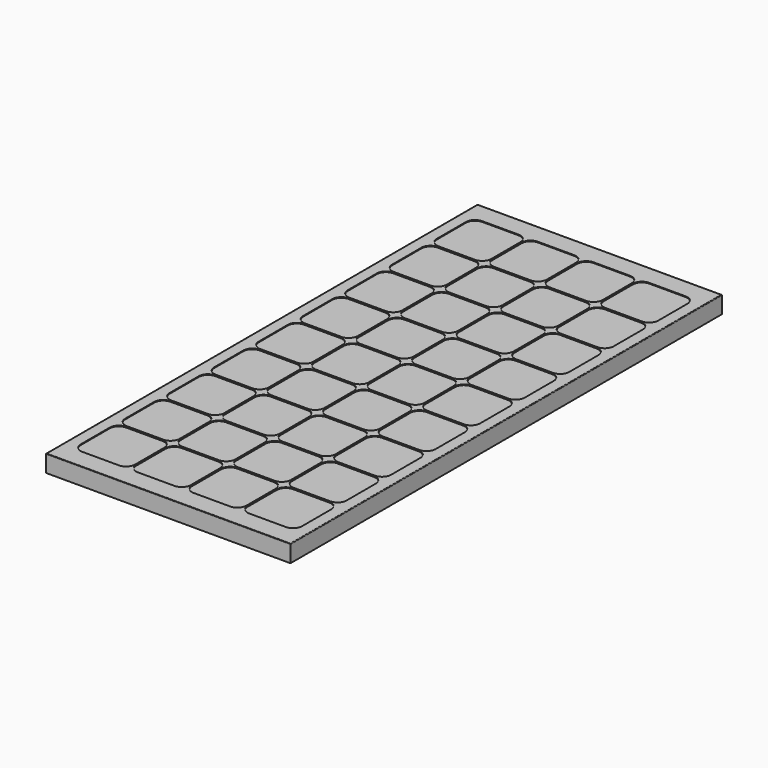
from build123d import *

# Parameters (mm, degrees)
F0_W     = 541.02
F0_H     = 1193.8
F1_DEPTH = 38.1
F3_START = 36.5125
F3_DEPTH = 1.5875
F4_DEPTH = 0.508
F5_R     = 1.27


with BuildPart() as f1:
    # F0 (on Top) → F1 (new body)
    with BuildSketch(Plane.XY):
        Rectangle(F0_W, F0_H)
    extrude(amount=F1_DEPTH)

    # F2 (on Top) → F3 (cut)
    with BuildSketch(Plane.XY.offset(F3_START)):
        with BuildLine():
            Line((-144.46, 553.085), (-225.11, 553.085))
            ThreePointArc((-225.11, 553.085), (-239.2521356237, 547.2271356237), (-245.11, 533.085))
            Line((-245.11, 533.085), (-245.11, 452.435))
            ThreePointArc((-245.11, 452.435), (-239.2521356237, 438.2928643763), (-225.11, 432.435))
            Line((-225.11, 432.435), (-144.46, 432.435))
            ThreePointArc((-144.46, 432.435), (-130.3178643763, 438.2928643763), (-124.46, 452.435))
            Line((-124.46, 452.435), (-124.46, 533.085))
            ThreePointArc((-124.46, 533.085), (-130.3178643763, 547.2271356237), (-144.46, 553.085))
        make_face()
        with BuildLine():
            Line((-144.46, 429.895), (-225.11, 429.895))
            ThreePointArc((-225.11, 429.895), (-239.2521356237, 424.0371356237), (-245.11, 409.895))
            Line((-245.11, 409.895), (-245.11, 329.245))
            ThreePointArc((-245.11, 329.245), (-239.2521356237, 315.1028643763), (-225.11, 309.245))
            Line((-225.11, 309.245), (-144.46, 309.245))
            ThreePointArc((-144.46, 309.245), (-130.3178643763, 315.1028643763), (-124.46, 329.245))
            Line((-124.46, 329.245), (-124.46, 409.895))
            ThreePointArc((-124.46, 409.895), (-130.3178643763, 424.0371356237), (-144.46, 429.895))
        make_face()
        with BuildLine():
            Line((-144.46, 306.705), (-225.11, 306.705))
            ThreePointArc((-225.11, 306.705), (-239.2521356237, 300.8471356237), (-245.11, 286.705))
            Line((-245.11, 286.705), (-245.11, 206.055))
            ThreePointArc((-245.11, 206.055), (-239.2521356237, 191.9128643763), (-225.11, 186.055))
            Line((-225.11, 186.055), (-144.46, 186.055))
            ThreePointArc((-144.46, 186.055), (-130.3178643763, 191.9128643763), (-124.46, 206.055))
            Line((-124.46, 206.055), (-124.46, 286.705))
            ThreePointArc((-124.46, 286.705), (-130.3178643763, 300.8471356237), (-144.46, 306.705))
        make_face()
        with BuildLine():
            Line((-144.46, 183.515), (-225.11, 183.515))
            ThreePointArc((-225.11, 183.515), (-239.2521356237, 177.6571356237), (-245.11, 163.515))
            Line((-245.11, 163.515), (-245.11, 82.865))
            ThreePointArc((-245.11, 82.865), (-239.2521356237, 68.7228643763), (-225.11, 62.865))
            Line((-225.11, 62.865), (-144.46, 62.865))
            ThreePointArc((-144.46, 62.865), (-130.3178643763, 68.7228643763), (-124.46, 82.865))
            Line((-124.46, 82.865), (-124.46, 163.515))
            ThreePointArc((-124.46, 163.515), (-130.3178643763, 177.6571356237), (-144.46, 183.515))
        make_face()
        with BuildLine():
            Line((-144.46, 60.325), (-225.11, 60.325))
            ThreePointArc((-225.11, 60.325), (-239.2521356237, 54.4671356237), (-245.11, 40.325))
            Line((-245.11, 40.325), (-245.11, -40.325))
            ThreePointArc((-245.11, -40.325), (-239.2521356237, -54.4671356237), (-225.11, -60.325))
            Line((-225.11, -60.325), (-144.46, -60.325))
            ThreePointArc((-144.46, -60.325), (-130.3178643763, -54.4671356237), (-124.46, -40.325))
            Line((-124.46, -40.325), (-124.46, 40.325))
            ThreePointArc((-124.46, 40.325), (-130.3178643763, 54.4671356237), (-144.46, 60.325))
        make_face()
        with BuildLine():
            Line((-144.46, -62.865), (-225.11, -62.865))
            ThreePointArc((-225.11, -62.865), (-239.2521356237, -68.7228643763), (-245.11, -82.865))
            Line((-245.11, -82.865), (-245.11, -163.515))
            ThreePointArc((-245.11, -163.515), (-239.2521356237, -177.6571356237), (-225.11, -183.515))
            Line((-225.11, -183.515), (-144.46, -183.515))
            ThreePointArc((-144.46, -183.515), (-130.3178643763, -177.6571356237), (-124.46, -163.515))
            Line((-124.46, -163.515), (-124.46, -82.865))
            ThreePointArc((-124.46, -82.865), (-130.3178643763, -68.7228643763), (-144.46, -62.865))
        make_face()
        with BuildLine():
            Line((-144.46, -186.055), (-225.11, -186.055))
            ThreePointArc((-225.11, -186.055), (-239.2521356237, -191.9128643763), (-245.11, -206.055))
            Line((-245.11, -206.055), (-245.11, -286.705))
            ThreePointArc((-245.11, -286.705), (-239.2521356237, -300.8471356237), (-225.11, -306.705))
            Line((-225.11, -306.705), (-144.46, -306.705))
            ThreePointArc((-144.46, -306.705), (-130.3178643763, -300.8471356237), (-124.46, -286.705))
            Line((-124.46, -286.705), (-124.46, -206.055))
            ThreePointArc((-124.46, -206.055), (-130.3178643763, -191.9128643763), (-144.46, -186.055))
        make_face()
        with BuildLine():
            Line((-144.46, -309.245), (-225.11, -309.245))
            ThreePointArc((-225.11, -309.245), (-239.2521356237, -315.1028643763), (-245.11, -329.245))
            Line((-245.11, -329.245), (-245.11, -409.895))
            ThreePointArc((-245.11, -409.895), (-239.2521356237, -424.0371356237), (-225.11, -429.895))
            Line((-225.11, -429.895), (-144.46, -429.895))
            ThreePointArc((-144.46, -429.895), (-130.3178643763, -424.0371356237), (-124.46, -409.895))
            Line((-124.46, -409.895), (-124.46, -329.245))
            ThreePointArc((-124.46, -329.245), (-130.3178643763, -315.1028643763), (-144.46, -309.245))
        make_face()
        with BuildLine():
            Line((-144.46, -432.435), (-225.11, -432.435))
            ThreePointArc((-225.11, -432.435), (-239.2521356237, -438.2928643763), (-245.11, -452.435))
            Line((-245.11, -452.435), (-245.11, -533.085))
            ThreePointArc((-245.11, -533.085), (-239.2521356237, -547.2271356237), (-225.11, -553.085))
            Line((-225.11, -553.085), (-144.46, -553.085))
            ThreePointArc((-144.46, -553.085), (-130.3178643763, -547.2271356237), (-124.46, -533.085))
            Line((-124.46, -533.085), (-124.46, -452.435))
            ThreePointArc((-124.46, -452.435), (-130.3178643763, -438.2928643763), (-144.46, -432.435))
        make_face()
        with BuildLine():
            Line((-21.27, 553.085), (-101.92, 553.085))
            ThreePointArc((-101.92, 553.085), (-116.0621356237, 547.2271356237), (-121.92, 533.085))
            Line((-121.92, 533.085), (-121.92, 452.435))
            ThreePointArc((-121.92, 452.435), (-116.0621356237, 438.2928643763), (-101.92, 432.435))
            Line((-101.92, 432.435), (-21.27, 432.435))
            ThreePointArc((-21.27, 432.435), (-7.1278643763, 438.2928643763), (-1.27, 452.435))
            Line((-1.27, 452.435), (-1.27, 533.085))
            ThreePointArc((-1.27, 533.085), (-7.1278643763, 547.2271356237), (-21.27, 553.085))
        make_face()
        with BuildLine():
            Line((-21.27, 429.895), (-101.92, 429.895))
            ThreePointArc((-101.92, 429.895), (-116.0621356237, 424.0371356237), (-121.92, 409.895))
            Line((-121.92, 409.895), (-121.92, 329.245))
            ThreePointArc((-121.92, 329.245), (-116.0621356237, 315.1028643763), (-101.92, 309.245))
            Line((-101.92, 309.245), (-21.27, 309.245))
            ThreePointArc((-21.27, 309.245), (-7.1278643763, 315.1028643763), (-1.27, 329.245))
            Line((-1.27, 329.245), (-1.27, 409.895))
            ThreePointArc((-1.27, 409.895), (-7.1278643763, 424.0371356237), (-21.27, 429.895))
        make_face()
        with BuildLine():
            Line((-21.27, 306.705), (-101.92, 306.705))
            ThreePointArc((-101.92, 306.705), (-116.0621356237, 300.8471356237), (-121.92, 286.705))
            Line((-121.92, 286.705), (-121.92, 206.055))
            ThreePointArc((-121.92, 206.055), (-116.0621356237, 191.9128643763), (-101.92, 186.055))
            Line((-101.92, 186.055), (-21.27, 186.055))
            ThreePointArc((-21.27, 186.055), (-7.1278643763, 191.9128643763), (-1.27, 206.055))
            Line((-1.27, 206.055), (-1.27, 286.705))
            ThreePointArc((-1.27, 286.705), (-7.1278643763, 300.8471356237), (-21.27, 306.705))
        make_face()
        with BuildLine():
            Line((-21.27, 183.515), (-101.92, 183.515))
            ThreePointArc((-101.92, 183.515), (-116.0621356237, 177.6571356237), (-121.92, 163.515))
            Line((-121.92, 163.515), (-121.92, 82.865))
            ThreePointArc((-121.92, 82.865), (-116.0621356237, 68.7228643763), (-101.92, 62.865))
            Line((-101.92, 62.865), (-21.27, 62.865))
            ThreePointArc((-21.27, 62.865), (-7.1278643763, 68.7228643763), (-1.27, 82.865))
            Line((-1.27, 82.865), (-1.27, 163.515))
            ThreePointArc((-1.27, 163.515), (-7.1278643763, 177.6571356237), (-21.27, 183.515))
        make_face()
        with BuildLine():
            Line((-21.27, 60.325), (-101.92, 60.325))
            ThreePointArc((-101.92, 60.325), (-116.0621356237, 54.4671356237), (-121.92, 40.325))
            Line((-121.92, 40.325), (-121.92, -40.325))
            ThreePointArc((-121.92, -40.325), (-116.0621356237, -54.4671356237), (-101.92, -60.325))
            Line((-101.92, -60.325), (-21.27, -60.325))
            ThreePointArc((-21.27, -60.325), (-7.1278643763, -54.4671356237), (-1.27, -40.325))
            Line((-1.27, -40.325), (-1.27, 40.325))
            ThreePointArc((-1.27, 40.325), (-7.1278643763, 54.4671356237), (-21.27, 60.325))
        make_face()
        with BuildLine():
            Line((-21.27, -62.865), (-101.92, -62.865))
            ThreePointArc((-101.92, -62.865), (-116.0621356237, -68.7228643763), (-121.92, -82.865))
            Line((-121.92, -82.865), (-121.92, -163.515))
            ThreePointArc((-121.92, -163.515), (-116.0621356237, -177.6571356237), (-101.92, -183.515))
            Line((-101.92, -183.515), (-21.27, -183.515))
            ThreePointArc((-21.27, -183.515), (-7.1278643763, -177.6571356237), (-1.27, -163.515))
            Line((-1.27, -163.515), (-1.27, -82.865))
            ThreePointArc((-1.27, -82.865), (-7.1278643763, -68.7228643763), (-21.27, -62.865))
        make_face()
        with BuildLine():
            Line((-21.27, -186.055), (-101.92, -186.055))
            ThreePointArc((-101.92, -186.055), (-116.0621356237, -191.9128643763), (-121.92, -206.055))
            Line((-121.92, -206.055), (-121.92, -286.705))
            ThreePointArc((-121.92, -286.705), (-116.0621356237, -300.8471356237), (-101.92, -306.705))
            Line((-101.92, -306.705), (-21.27, -306.705))
            ThreePointArc((-21.27, -306.705), (-7.1278643763, -300.8471356237), (-1.27, -286.705))
            Line((-1.27, -286.705), (-1.27, -206.055))
            ThreePointArc((-1.27, -206.055), (-7.1278643763, -191.9128643763), (-21.27, -186.055))
        make_face()
        with BuildLine():
            Line((-21.27, -309.245), (-101.92, -309.245))
            ThreePointArc((-101.92, -309.245), (-116.0621356237, -315.1028643763), (-121.92, -329.245))
            Line((-121.92, -329.245), (-121.92, -409.895))
            ThreePointArc((-121.92, -409.895), (-116.0621356237, -424.0371356237), (-101.92, -429.895))
            Line((-101.92, -429.895), (-21.27, -429.895))
            ThreePointArc((-21.27, -429.895), (-7.1278643763, -424.0371356237), (-1.27, -409.895))
            Line((-1.27, -409.895), (-1.27, -329.245))
            ThreePointArc((-1.27, -329.245), (-7.1278643763, -315.1028643763), (-21.27, -309.245))
        make_face()
        with BuildLine():
            Line((-21.27, -432.435), (-101.92, -432.435))
            ThreePointArc((-101.92, -432.435), (-116.0621356237, -438.2928643763), (-121.92, -452.435))
            Line((-121.92, -452.435), (-121.92, -533.085))
            ThreePointArc((-121.92, -533.085), (-116.0621356237, -547.2271356237), (-101.92, -553.085))
            Line((-101.92, -553.085), (-21.27, -553.085))
            ThreePointArc((-21.27, -553.085), (-7.1278643763, -547.2271356237), (-1.27, -533.085))
            Line((-1.27, -533.085), (-1.27, -452.435))
            ThreePointArc((-1.27, -452.435), (-7.1278643763, -438.2928643763), (-21.27, -432.435))
        make_face()
        with BuildLine():
            Line((101.92, 553.085), (21.27, 553.085))
            ThreePointArc((21.27, 553.085), (7.1278643763, 547.2271356237), (1.27, 533.085))
            Line((1.27, 533.085), (1.27, 452.435))
            ThreePointArc((1.27, 452.435), (7.1278643763, 438.2928643763), (21.27, 432.435))
            Line((21.27, 432.435), (101.92, 432.435))
            ThreePointArc((101.92, 432.435), (116.0621356237, 438.2928643763), (121.92, 452.435))
            Line((121.92, 452.435), (121.92, 533.085))
            ThreePointArc((121.92, 533.085), (116.0621356237, 547.2271356237), (101.92, 553.085))
        make_face()
        with BuildLine():
            Line((101.92, 429.895), (21.27, 429.895))
            ThreePointArc((21.27, 429.895), (7.1278643763, 424.0371356237), (1.27, 409.895))
            Line((1.27, 409.895), (1.27, 329.245))
            ThreePointArc((1.27, 329.245), (7.1278643763, 315.1028643763), (21.27, 309.245))
            Line((21.27, 309.245), (101.92, 309.245))
            ThreePointArc((101.92, 309.245), (116.0621356237, 315.1028643763), (121.92, 329.245))
            Line((121.92, 329.245), (121.92, 409.895))
            ThreePointArc((121.92, 409.895), (116.0621356237, 424.0371356237), (101.92, 429.895))
        make_face()
        with BuildLine():
            Line((101.92, 306.705), (21.27, 306.705))
            ThreePointArc((21.27, 306.705), (7.1278643763, 300.8471356237), (1.27, 286.705))
            Line((1.27, 286.705), (1.27, 206.055))
            ThreePointArc((1.27, 206.055), (7.1278643763, 191.9128643763), (21.27, 186.055))
            Line((21.27, 186.055), (101.92, 186.055))
            ThreePointArc((101.92, 186.055), (116.0621356237, 191.9128643763), (121.92, 206.055))
            Line((121.92, 206.055), (121.92, 286.705))
            ThreePointArc((121.92, 286.705), (116.0621356237, 300.8471356237), (101.92, 306.705))
        make_face()
        with BuildLine():
            Line((101.92, 183.515), (21.27, 183.515))
            ThreePointArc((21.27, 183.515), (7.1278643763, 177.6571356237), (1.27, 163.515))
            Line((1.27, 163.515), (1.27, 82.865))
            ThreePointArc((1.27, 82.865), (7.1278643763, 68.7228643763), (21.27, 62.865))
            Line((21.27, 62.865), (101.92, 62.865))
            ThreePointArc((101.92, 62.865), (116.0621356237, 68.7228643763), (121.92, 82.865))
            Line((121.92, 82.865), (121.92, 163.515))
            ThreePointArc((121.92, 163.515), (116.0621356237, 177.6571356237), (101.92, 183.515))
        make_face()
        with BuildLine():
            Line((101.92, 60.325), (21.27, 60.325))
            ThreePointArc((21.27, 60.325), (7.1278643763, 54.4671356237), (1.27, 40.325))
            Line((1.27, 40.325), (1.27, -40.325))
            ThreePointArc((1.27, -40.325), (7.1278643763, -54.4671356237), (21.27, -60.325))
            Line((21.27, -60.325), (101.92, -60.325))
            ThreePointArc((101.92, -60.325), (116.0621356237, -54.4671356237), (121.92, -40.325))
            Line((121.92, -40.325), (121.92, 40.325))
            ThreePointArc((121.92, 40.325), (116.0621356237, 54.4671356237), (101.92, 60.325))
        make_face()
        with BuildLine():
            Line((101.92, -62.865), (21.27, -62.865))
            ThreePointArc((21.27, -62.865), (7.1278643763, -68.7228643763), (1.27, -82.865))
            Line((1.27, -82.865), (1.27, -163.515))
            ThreePointArc((1.27, -163.515), (7.1278643763, -177.6571356237), (21.27, -183.515))
            Line((21.27, -183.515), (101.92, -183.515))
            ThreePointArc((101.92, -183.515), (116.0621356237, -177.6571356237), (121.92, -163.515))
            Line((121.92, -163.515), (121.92, -82.865))
            ThreePointArc((121.92, -82.865), (116.0621356237, -68.7228643763), (101.92, -62.865))
        make_face()
        with BuildLine():
            Line((101.92, -186.055), (21.27, -186.055))
            ThreePointArc((21.27, -186.055), (7.1278643763, -191.9128643763), (1.27, -206.055))
            Line((1.27, -206.055), (1.27, -286.705))
            ThreePointArc((1.27, -286.705), (7.1278643763, -300.8471356237), (21.27, -306.705))
            Line((21.27, -306.705), (101.92, -306.705))
            ThreePointArc((101.92, -306.705), (116.0621356237, -300.8471356237), (121.92, -286.705))
            Line((121.92, -286.705), (121.92, -206.055))
            ThreePointArc((121.92, -206.055), (116.0621356237, -191.9128643763), (101.92, -186.055))
        make_face()
        with BuildLine():
            Line((101.92, -309.245), (21.27, -309.245))
            ThreePointArc((21.27, -309.245), (7.1278643763, -315.1028643763), (1.27, -329.245))
            Line((1.27, -329.245), (1.27, -409.895))
            ThreePointArc((1.27, -409.895), (7.1278643763, -424.0371356237), (21.27, -429.895))
            Line((21.27, -429.895), (101.92, -429.895))
            ThreePointArc((101.92, -429.895), (116.0621356237, -424.0371356237), (121.92, -409.895))
            Line((121.92, -409.895), (121.92, -329.245))
            ThreePointArc((121.92, -329.245), (116.0621356237, -315.1028643763), (101.92, -309.245))
        make_face()
        with BuildLine():
            Line((101.92, -432.435), (21.27, -432.435))
            ThreePointArc((21.27, -432.435), (7.1278643763, -438.2928643763), (1.27, -452.435))
            Line((1.27, -452.435), (1.27, -533.085))
            ThreePointArc((1.27, -533.085), (7.1278643763, -547.2271356237), (21.27, -553.085))
            Line((21.27, -553.085), (101.92, -553.085))
            ThreePointArc((101.92, -553.085), (116.0621356237, -547.2271356237), (121.92, -533.085))
            Line((121.92, -533.085), (121.92, -452.435))
            ThreePointArc((121.92, -452.435), (116.0621356237, -438.2928643763), (101.92, -432.435))
        make_face()
        with BuildLine():
            Line((225.11, 553.085), (144.46, 553.085))
            ThreePointArc((144.46, 553.085), (130.3178643763, 547.2271356237), (124.46, 533.085))
            Line((124.46, 533.085), (124.46, 452.435))
            ThreePointArc((124.46, 452.435), (130.3178643763, 438.2928643763), (144.46, 432.435))
            Line((144.46, 432.435), (225.11, 432.435))
            ThreePointArc((225.11, 432.435), (239.2521356237, 438.2928643763), (245.11, 452.435))
            Line((245.11, 452.435), (245.11, 533.085))
            ThreePointArc((245.11, 533.085), (239.2521356237, 547.2271356237), (225.11, 553.085))
        make_face()
        with BuildLine():
            Line((225.11, 429.895), (144.46, 429.895))
            ThreePointArc((144.46, 429.895), (130.3178643763, 424.0371356237), (124.46, 409.895))
            Line((124.46, 409.895), (124.46, 329.245))
            ThreePointArc((124.46, 329.245), (130.3178643763, 315.1028643763), (144.46, 309.245))
            Line((144.46, 309.245), (225.11, 309.245))
            ThreePointArc((225.11, 309.245), (239.2521356237, 315.1028643763), (245.11, 329.245))
            Line((245.11, 329.245), (245.11, 409.895))
            ThreePointArc((245.11, 409.895), (239.2521356237, 424.0371356237), (225.11, 429.895))
        make_face()
        with BuildLine():
            Line((225.11, 306.705), (144.46, 306.705))
            ThreePointArc((144.46, 306.705), (130.3178643763, 300.8471356237), (124.46, 286.705))
            Line((124.46, 286.705), (124.46, 206.055))
            ThreePointArc((124.46, 206.055), (130.3178643763, 191.9128643763), (144.46, 186.055))
            Line((144.46, 186.055), (225.11, 186.055))
            ThreePointArc((225.11, 186.055), (239.2521356237, 191.9128643763), (245.11, 206.055))
            Line((245.11, 206.055), (245.11, 286.705))
            ThreePointArc((245.11, 286.705), (239.2521356237, 300.8471356237), (225.11, 306.705))
        make_face()
        with BuildLine():
            Line((225.11, 183.515), (144.46, 183.515))
            ThreePointArc((144.46, 183.515), (130.3178643763, 177.6571356237), (124.46, 163.515))
            Line((124.46, 163.515), (124.46, 82.865))
            ThreePointArc((124.46, 82.865), (130.3178643763, 68.7228643763), (144.46, 62.865))
            Line((144.46, 62.865), (225.11, 62.865))
            ThreePointArc((225.11, 62.865), (239.2521356237, 68.7228643763), (245.11, 82.865))
            Line((245.11, 82.865), (245.11, 163.515))
            ThreePointArc((245.11, 163.515), (239.2521356237, 177.6571356237), (225.11, 183.515))
        make_face()
        with BuildLine():
            Line((225.11, 60.325), (144.46, 60.325))
            ThreePointArc((144.46, 60.325), (130.3178643763, 54.4671356237), (124.46, 40.325))
            Line((124.46, 40.325), (124.46, -40.325))
            ThreePointArc((124.46, -40.325), (130.3178643763, -54.4671356237), (144.46, -60.325))
            Line((144.46, -60.325), (225.11, -60.325))
            ThreePointArc((225.11, -60.325), (239.2521356237, -54.4671356237), (245.11, -40.325))
            Line((245.11, -40.325), (245.11, 40.325))
            ThreePointArc((245.11, 40.325), (239.2521356237, 54.4671356237), (225.11, 60.325))
        make_face()
        with BuildLine():
            Line((225.11, -62.865), (144.46, -62.865))
            ThreePointArc((144.46, -62.865), (130.3178643763, -68.7228643763), (124.46, -82.865))
            Line((124.46, -82.865), (124.46, -163.515))
            ThreePointArc((124.46, -163.515), (130.3178643763, -177.6571356237), (144.46, -183.515))
            Line((144.46, -183.515), (225.11, -183.515))
            ThreePointArc((225.11, -183.515), (239.2521356237, -177.6571356237), (245.11, -163.515))
            Line((245.11, -163.515), (245.11, -82.865))
            ThreePointArc((245.11, -82.865), (239.2521356237, -68.7228643763), (225.11, -62.865))
        make_face()
        with BuildLine():
            Line((225.11, -186.055), (144.46, -186.055))
            ThreePointArc((144.46, -186.055), (130.3178643763, -191.9128643763), (124.46, -206.055))
            Line((124.46, -206.055), (124.46, -286.705))
            ThreePointArc((124.46, -286.705), (130.3178643763, -300.8471356237), (144.46, -306.705))
            Line((144.46, -306.705), (225.11, -306.705))
            ThreePointArc((225.11, -306.705), (239.2521356237, -300.8471356237), (245.11, -286.705))
            Line((245.11, -286.705), (245.11, -206.055))
            ThreePointArc((245.11, -206.055), (239.2521356237, -191.9128643763), (225.11, -186.055))
        make_face()
        with BuildLine():
            Line((225.11, -309.245), (144.46, -309.245))
            ThreePointArc((144.46, -309.245), (130.3178643763, -315.1028643763), (124.46, -329.245))
            Line((124.46, -329.245), (124.46, -409.895))
            ThreePointArc((124.46, -409.895), (130.3178643763, -424.0371356237), (144.46, -429.895))
            Line((144.46, -429.895), (225.11, -429.895))
            ThreePointArc((225.11, -429.895), (239.2521356237, -424.0371356237), (245.11, -409.895))
            Line((245.11, -409.895), (245.11, -329.245))
            ThreePointArc((245.11, -329.245), (239.2521356237, -315.1028643763), (225.11, -309.245))
        make_face()
        with BuildLine():
            Line((225.11, -432.435), (144.46, -432.435))
            ThreePointArc((144.46, -432.435), (130.3178643763, -438.2928643763), (124.46, -452.435))
            Line((124.46, -452.435), (124.46, -533.085))
            ThreePointArc((124.46, -533.085), (130.3178643763, -547.2271356237), (144.46, -553.085))
            Line((144.46, -553.085), (225.11, -553.085))
            ThreePointArc((225.11, -553.085), (239.2521356237, -547.2271356237), (245.11, -533.085))
            Line((245.11, -533.085), (245.11, -452.435))
            ThreePointArc((245.11, -452.435), (239.2521356237, -438.2928643763), (225.11, -432.435))
        make_face()
    extrude(amount=F3_DEPTH, mode=Mode.SUBTRACT)


with BuildPart() as f4:
    # F4 (new): a face of the model
    f4_faces = [f1.part.faces().sort_by_distance(p)[0] for p in [
        (-184.785, -492.76, 36.5125),
    ]]
    extrude(f4_faces, amount=F4_DEPTH)


with BuildPart() as f4b:
    # F4#2 (new): a face of the model
    f4_2_faces = [f1.part.faces().sort_by_distance(p)[0] for p in [
        (-61.595, -492.76, 36.5125),
    ]]
    extrude(f4_2_faces, amount=F4_DEPTH)


with BuildPart() as f4c:
    # F4#3 (new): a face of the model
    f4_3_faces = [f1.part.faces().sort_by_distance(p)[0] for p in [
        (61.595, -492.76, 36.5125),
    ]]
    extrude(f4_3_faces, amount=F4_DEPTH)


with BuildPart() as f4d:
    # F4#4 (new): a face of the model
    f4_4_faces = [f1.part.faces().sort_by_distance(p)[0] for p in [
        (184.785, -492.76, 36.5125),
    ]]
    extrude(f4_4_faces, amount=F4_DEPTH)


with BuildPart() as f4e:
    # F4#5 (new): a face of the model
    f4_5_faces = [f1.part.faces().sort_by_distance(p)[0] for p in [
        (184.785, -369.57, 36.5125),
    ]]
    extrude(f4_5_faces, amount=F4_DEPTH)


with BuildPart() as f4f:
    # F4#6 (new): a face of the model
    f4_6_faces = [f1.part.faces().sort_by_distance(p)[0] for p in [
        (61.595, -369.57, 36.5125),
    ]]
    extrude(f4_6_faces, amount=F4_DEPTH)


with BuildPart() as f4g:
    # F4#7 (new): a face of the model
    f4_7_faces = [f1.part.faces().sort_by_distance(p)[0] for p in [
        (-61.595, -369.57, 36.5125),
    ]]
    extrude(f4_7_faces, amount=F4_DEPTH)


with BuildPart() as f4h:
    # F4#8 (new): a face of the model
    f4_8_faces = [f1.part.faces().sort_by_distance(p)[0] for p in [
        (-184.785, -369.57, 36.5125),
    ]]
    extrude(f4_8_faces, amount=F4_DEPTH)


with BuildPart() as f4i:
    # F4#9 (new): a face of the model
    f4_9_faces = [f1.part.faces().sort_by_distance(p)[0] for p in [
        (-184.785, -246.38, 36.5125),
    ]]
    extrude(f4_9_faces, amount=F4_DEPTH)


with BuildPart() as f4j:
    # F4#10 (new): a face of the model
    f4_10_faces = [f1.part.faces().sort_by_distance(p)[0] for p in [
        (-61.595, -246.38, 36.5125),
    ]]
    extrude(f4_10_faces, amount=F4_DEPTH)


with BuildPart() as f4k:
    # F4#11 (new): a face of the model
    f4_11_faces = [f1.part.faces().sort_by_distance(p)[0] for p in [
        (61.595, -246.38, 36.5125),
    ]]
    extrude(f4_11_faces, amount=F4_DEPTH)


with BuildPart() as f4l:
    # F4#12 (new): a face of the model
    f4_12_faces = [f1.part.faces().sort_by_distance(p)[0] for p in [
        (184.785, -246.38, 36.5125),
    ]]
    extrude(f4_12_faces, amount=F4_DEPTH)


with BuildPart() as f4m:
    # F4#13 (new): a face of the model
    f4_13_faces = [f1.part.faces().sort_by_distance(p)[0] for p in [
        (184.785, -123.19, 36.5125),
    ]]
    extrude(f4_13_faces, amount=F4_DEPTH)


with BuildPart() as f4n:
    # F4#14 (new): a face of the model
    f4_14_faces = [f1.part.faces().sort_by_distance(p)[0] for p in [
        (61.595, -123.19, 36.5125),
    ]]
    extrude(f4_14_faces, amount=F4_DEPTH)


with BuildPart() as f4o:
    # F4#15 (new): a face of the model
    f4_15_faces = [f1.part.faces().sort_by_distance(p)[0] for p in [
        (-61.595, -123.19, 36.5125),
    ]]
    extrude(f4_15_faces, amount=F4_DEPTH)


with BuildPart() as f4p:
    # F4#16 (new): a face of the model
    f4_16_faces = [f1.part.faces().sort_by_distance(p)[0] for p in [
        (-184.785, -123.19, 36.5125),
    ]]
    extrude(f4_16_faces, amount=F4_DEPTH)


with BuildPart() as f4q:
    # F4#17 (new): a face of the model
    f4_17_faces = [f1.part.faces().sort_by_distance(p)[0] for p in [
        (-184.785, 0, 36.5125),
    ]]
    extrude(f4_17_faces, amount=F4_DEPTH)


with BuildPart() as f4r:
    # F4#18 (new): a face of the model
    f4_18_faces = [f1.part.faces().sort_by_distance(p)[0] for p in [
        (-61.595, 0, 36.5125),
    ]]
    extrude(f4_18_faces, amount=F4_DEPTH)


with BuildPart() as f4s:
    # F4#19 (new): a face of the model
    f4_19_faces = [f1.part.faces().sort_by_distance(p)[0] for p in [
        (61.595, 0, 36.5125),
    ]]
    extrude(f4_19_faces, amount=F4_DEPTH)


with BuildPart() as f4t:
    # F4#20 (new): a face of the model
    f4_20_faces = [f1.part.faces().sort_by_distance(p)[0] for p in [
        (184.785, 0, 36.5125),
    ]]
    extrude(f4_20_faces, amount=F4_DEPTH)


with BuildPart() as f4u:
    # F4#21 (new): a face of the model
    f4_21_faces = [f1.part.faces().sort_by_distance(p)[0] for p in [
        (184.785, 123.19, 36.5125),
    ]]
    extrude(f4_21_faces, amount=F4_DEPTH)


with BuildPart() as f4v:
    # F4#22 (new): a face of the model
    f4_22_faces = [f1.part.faces().sort_by_distance(p)[0] for p in [
        (61.595, 123.19, 36.5125),
    ]]
    extrude(f4_22_faces, amount=F4_DEPTH)


with BuildPart() as f4w:
    # F4#23 (new): a face of the model
    f4_23_faces = [f1.part.faces().sort_by_distance(p)[0] for p in [
        (-61.595, 123.19, 36.5125),
    ]]
    extrude(f4_23_faces, amount=F4_DEPTH)


with BuildPart() as f4x:
    # F4#24 (new): a face of the model
    f4_24_faces = [f1.part.faces().sort_by_distance(p)[0] for p in [
        (-184.785, 123.19, 36.5125),
    ]]
    extrude(f4_24_faces, amount=F4_DEPTH)


with BuildPart() as f4y:
    # F4#25 (new): faces of the model
    f4_25_faces = [f1.part.faces().sort_by_distance(p)[0] for p in [
        (-184.785, 246.38, 36.5125),
        (-184.785, 246.38, 36.5125),
    ]]
    extrude(f4_25_faces, amount=F4_DEPTH)


with BuildPart() as f4z:
    # F4#26 (new): a face of the model
    f4_26_faces = [f1.part.faces().sort_by_distance(p)[0] for p in [
        (-61.595, 246.38, 36.5125),
    ]]
    extrude(f4_26_faces, amount=F4_DEPTH)


with BuildPart() as f4ba:
    # F4#27 (new): a face of the model
    f4_27_faces = [f1.part.faces().sort_by_distance(p)[0] for p in [
        (61.595, 246.38, 36.5125),
    ]]
    extrude(f4_27_faces, amount=F4_DEPTH)


with BuildPart() as f4bb:
    # F4#28 (new): a face of the model
    f4_28_faces = [f1.part.faces().sort_by_distance(p)[0] for p in [
        (184.785, 246.38, 36.5125),
    ]]
    extrude(f4_28_faces, amount=F4_DEPTH)


with BuildPart() as f4bc:
    # F4#29 (new): a face of the model
    f4_29_faces = [f1.part.faces().sort_by_distance(p)[0] for p in [
        (184.785, 369.57, 36.5125),
    ]]
    extrude(f4_29_faces, amount=F4_DEPTH)


with BuildPart() as f4bd:
    # F4#30 (new): a face of the model
    f4_30_faces = [f1.part.faces().sort_by_distance(p)[0] for p in [
        (61.595, 369.57, 36.5125),
    ]]
    extrude(f4_30_faces, amount=F4_DEPTH)


with BuildPart() as f4be:
    # F4#31 (new): a face of the model
    f4_31_faces = [f1.part.faces().sort_by_distance(p)[0] for p in [
        (-61.595, 369.57, 36.5125),
    ]]
    extrude(f4_31_faces, amount=F4_DEPTH)


with BuildPart() as f4bf:
    # F4#32 (new): faces of the model
    f4_32_faces = [f1.part.faces().sort_by_distance(p)[0] for p in [
        (-184.785, 369.57, 36.5125),
        (-184.785, 369.57, 36.5125),
    ]]
    extrude(f4_32_faces, amount=F4_DEPTH)


with BuildPart() as f4bg:
    # F4#33 (new): a face of the model
    f4_33_faces = [f1.part.faces().sort_by_distance(p)[0] for p in [
        (-184.785, 492.76, 36.5125),
    ]]
    extrude(f4_33_faces, amount=F4_DEPTH)


with BuildPart() as f4bh:
    # F4#34 (new): a face of the model
    f4_34_faces = [f1.part.faces().sort_by_distance(p)[0] for p in [
        (-61.595, 492.76, 36.5125),
    ]]
    extrude(f4_34_faces, amount=F4_DEPTH)


with BuildPart() as f4bi:
    # F4#35 (new): a face of the model
    f4_35_faces = [f1.part.faces().sort_by_distance(p)[0] for p in [
        (61.595, 492.76, 36.5125),
    ]]
    extrude(f4_35_faces, amount=F4_DEPTH)


with BuildPart() as f4bj:
    # F4#36 (new): a face of the model
    f4_36_faces = [f1.part.faces().sort_by_distance(p)[0] for p in [
        (184.785, 492.76, 36.5125),
    ]]
    extrude(f4_36_faces, amount=F4_DEPTH)


with BuildPart() as f1_1:
    add(f1.part)

    # F5
    f5_edges = [f1_1.edges().sort_by_distance(p)[0] for p in [
        (0, -596.9, 38.1),
        (270.51, 0, 38.1),
        (-270.51, 0, 38.1),
        (0, 596.9, 38.1),
    ]]
    fillet(f5_edges, radius=F5_R)


solid = f1_1.part
